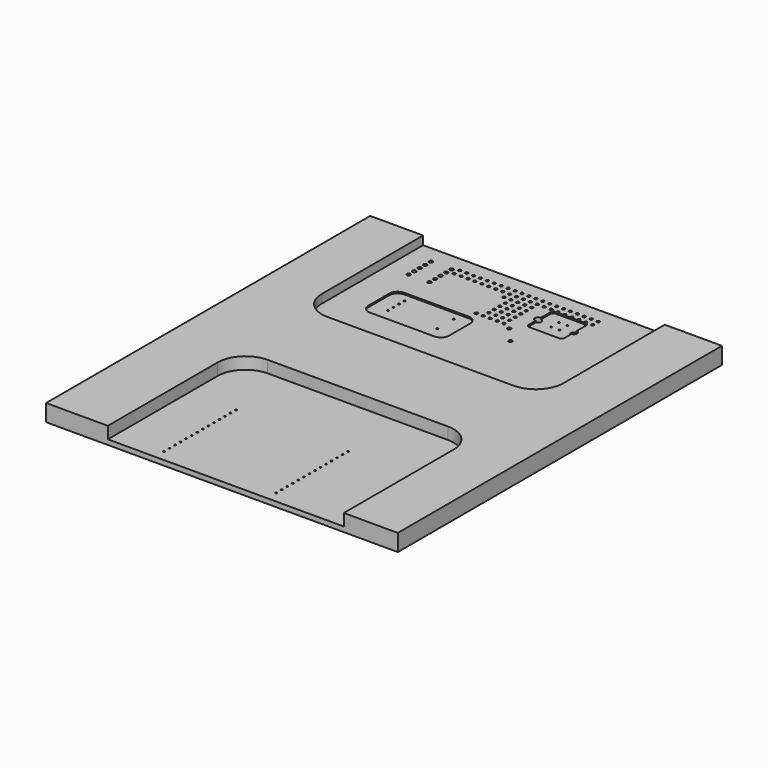
from build123d import *

# Parameters (mm, degrees)
F0_W     = 127
F0_H     = 146.3
F1_DEPTH = 6.1
F3_DEPTH = 4.3
F5_DEPTH = 3.1
F6_R     = 0.3
F6_R_2   = 0.65
F6_R_3   = 0.5
F6_R_4   = 0.6
F6_R_5   = 0.655
F6_R_6   = 0.325
F6_R_7   = 1.15
F7_DEPTH = 25
F9_DEPTH = 0.55


with BuildPart() as f1:
    # F0 (on Top) → F1 (new body)
    with BuildSketch(Plane.XY):
        Rectangle(F0_W, F0_H)
    extrude(amount=F1_DEPTH)

    # F2 (on face) → F3 (cut)
    with BuildSketch(Plane.XY.offset(6.1)):
        with BuildLine():
            Line((-41.2, -23.55), (-41.2, -73.15))
            Line((-41.2, -73.15), (44, -73.15))
            Line((44, -73.15), (44, -23.55))
            ThreePointArc((44, -23.55), (41.071068, -16.478932), (34, -13.55))
            Line((34, -13.55), (-31.2, -13.55))
            ThreePointArc((-31.2, -13.55), (-38.271068, -16.478932), (-41.2, -23.55))
        make_face()
    extrude(amount=-F3_DEPTH, mode=Mode.SUBTRACT)

    # F4 (on face) → F5 (cut)
    with BuildSketch(Plane.XY.offset(6.1)):
        with BuildLine():
            Line((42.85, 73.15), (-44.4, 73.15))
            Line((-44.4, 73.15), (-44.4, 27.45))
            ThreePointArc((-44.4, 27.45), (-41.471068, 20.378932), (-34.4, 17.45))
            Line((-34.4, 17.45), (32.85, 17.45))
            ThreePointArc((32.85, 17.45), (39.921068, 20.378932), (42.85, 27.45))
            Line((42.85, 27.45), (42.85, 73.15))
        make_face()
    extrude(amount=-F5_DEPTH, mode=Mode.SUBTRACT)

    # F6 (on face) → F7 (cut)
    with BuildSketch(Plane.XY.offset(3)):
        with Locations((-24.2, -36.55)):
            Circle(F6_R)
        with Locations((-24.2, -39.05)):
            Circle(F6_R)
        with Locations((-24.2, -41.55)):
            Circle(F6_R)
        with Locations((-24.2, -44.05)):
            Circle(F6_R)
        with Locations((-24.2, -46.55)):
            Circle(F6_R)
        with Locations((-24.2, -49.05)):
            Circle(F6_R)
        with Locations((-24.2, -51.55)):
            Circle(F6_R)
        with Locations((-24.2, -54.05)):
            Circle(F6_R)
        with Locations((-24.2, -56.55)):
            Circle(F6_R)
        with Locations((-24.2, -59.05)):
            Circle(F6_R)
        with Locations((-24.2, -61.55)):
            Circle(F6_R)
        with Locations((-24.2, -64.05)):
            Circle(F6_R)
        with Locations((-24.2, -66.55)):
            Circle(F6_R)
        with Locations((-24.2, -69.05)):
            Circle(F6_R)
        with Locations((16.3, -36.55)):
            Circle(F6_R)
        with Locations((16.3, -39.05)):
            Circle(F6_R)
        with Locations((16.3, -41.55)):
            Circle(F6_R)
        with Locations((16.3, -44.05)):
            Circle(F6_R)
        with Locations((16.3, -46.55)):
            Circle(F6_R)
        with Locations((16.3, -49.05)):
            Circle(F6_R)
        with Locations((16.3, -51.55)):
            Circle(F6_R)
        with Locations((16.3, -54.05)):
            Circle(F6_R)
        with Locations((16.3, -56.55)):
            Circle(F6_R)
        with Locations((16.3, -59.05)):
            Circle(F6_R)
        with Locations((16.3, -61.55)):
            Circle(F6_R)
        with Locations((16.3, -64.05)):
            Circle(F6_R)
        with Locations((16.3, -66.55)):
            Circle(F6_R)
        with Locations((16.3, -69.05)):
            Circle(F6_R)
        with Locations((-36.4, 66.65)):
            Circle(F6_R_2)
        with Locations((-36.4, 64.15)):
            Circle(F6_R_2)
        with Locations((-36.4, 61.65)):
            Circle(F6_R_2)
        with Locations((-36.4, 59.15)):
            Circle(F6_R_2)
        with Locations((-36.4, 56.65)):
            Circle(F6_R_2)
        with Locations((-28.9, 66.65)):
            Circle(F6_R_2)
        with Locations((-28.9, 64.15)):
            Circle(F6_R_2)
        with Locations((-28.9, 61.65)):
            Circle(F6_R_2)
        with Locations((-28.9, 59.15)):
            Circle(F6_R_2)
        with Locations((-28.9, 56.65)):
            Circle(F6_R_2)
        with Locations((-26.7, 67.55)):
            Circle(F6_R_3)
        with Locations((-26.7, 65.05)):
            Circle(F6_R_3)
        with Locations((-24.2, 67.55)):
            Circle(F6_R_3)
        with Locations((-24.2, 65.05)):
            Circle(F6_R_3)
        with Locations((-21.7, 67.55)):
            Circle(F6_R_3)
        with Locations((-21.7, 65.05)):
            Circle(F6_R_3)
        with Locations((-19.2, 67.55)):
            Circle(F6_R_3)
        with Locations((-19.2, 65.05)):
            Circle(F6_R_3)
        with Locations((-16.7, 67.55)):
            Circle(F6_R_3)
        with Locations((-16.7, 65.05)):
            Circle(F6_R_3)
        with Locations((-14.2, 67.55)):
            Circle(F6_R_3)
        with Locations((-14.2, 65.05)):
            Circle(F6_R_3)
        with Locations((-11.7, 67.55)):
            Circle(F6_R_3)
        with Locations((-11.7, 65.05)):
            Circle(F6_R_3)
        with Locations((-9.2, 67.55)):
            Circle(F6_R_3)
        with Locations((-9.2, 65.05)):
            Circle(F6_R_3)
        with Locations((-6.7, 67.55)):
            Circle(F6_R_3)
        with Locations((-6.7, 65.05)):
            Circle(F6_R_3)
        with Locations((-4.2, 67.55)):
            Circle(F6_R_3)
        with Locations((-4.2, 65.05)):
            Circle(F6_R_3)
        with Locations((-1.7, 67.55)):
            Circle(F6_R_3)
        with Locations((-1.7, 65.05)):
            Circle(F6_R_3)
        with Locations((0.8, 67.55)):
            Circle(F6_R_3)
        with Locations((0.8, 65.05)):
            Circle(F6_R_3)
        with Locations((3.3, 67.55)):
            Circle(F6_R_3)
        with Locations((3.3, 65.05)):
            Circle(F6_R_3)
        with Locations((5.8, 67.55)):
            Circle(F6_R_3)
        with Locations((5.8, 65.05)):
            Circle(F6_R_3)
        with Locations((8.3, 67.55)):
            Circle(F6_R_3)
        with Locations((8.3, 65.05)):
            Circle(F6_R_3)
        with Locations((10.8, 67.55)):
            Circle(F6_R_3)
        with Locations((10.8, 65.05)):
            Circle(F6_R_3)
        with Locations((13.3, 67.55)):
            Circle(F6_R_3)
        with Locations((13.3, 65.05)):
            Circle(F6_R_3)
        with Locations((15.8, 67.55)):
            Circle(F6_R_3)
        with Locations((15.8, 65.05)):
            Circle(F6_R_3)
        with Locations((18.3, 67.55)):
            Circle(F6_R_3)
        with Locations((18.3, 65.05)):
            Circle(F6_R_3)
        with Locations((20.8, 67.55)):
            Circle(F6_R_3)
        with Locations((20.8, 65.05)):
            Circle(F6_R_3)
        with Locations((23.3, 67.55)):
            Circle(F6_R_3)
        with Locations((23.3, 65.05)):
            Circle(F6_R_3)
        with Locations((-6.7, 62.55)):
            Circle(F6_R_3)
        with Locations((-4.2, 62.55)):
            Circle(F6_R_3)
        with Locations((-4.2, 60.05)):
            Circle(F6_R_3)
        with Locations((-4.2, 57.55)):
            Circle(F6_R_3)
        with Locations((-4.2, 55.05)):
            Circle(F6_R_3)
        with Locations((-4.2, 52.55)):
            Circle(F6_R_3)
        with Locations((-4.2, 50.05)):
            Circle(F6_R_3)
        with Locations((-1.7, 62.55)):
            Circle(F6_R_3)
        with Locations((-1.7, 60.05)):
            Circle(F6_R_3)
        with Locations((-1.7, 57.55)):
            Circle(F6_R_3)
        with Locations((-1.7, 55.05)):
            Circle(F6_R_3)
        with Locations((-1.7, 52.55)):
            Circle(F6_R_3)
        with Locations((-1.7, 50.05)):
            Circle(F6_R_3)
        with Locations((0.8, 62.55)):
            Circle(F6_R_3)
        with Locations((0.8, 60.05)):
            Circle(F6_R_3)
        with Locations((0.8, 57.55)):
            Circle(F6_R_3)
        with Locations((0.8, 55.05)):
            Circle(F6_R_3)
        with Locations((0.8, 52.55)):
            Circle(F6_R_3)
        with Locations((0.8, 50.05)):
            Circle(F6_R_3)
        with Locations((3.3, 62.55)):
            Circle(F6_R_3)
        with Locations((3.3, 60.05)):
            Circle(F6_R_3)
        with Locations((3.3, 57.55)):
            Circle(F6_R_3)
        with Locations((3.3, 55.05)):
            Circle(F6_R_3)
        with Locations((3.3, 52.55)):
            Circle(F6_R_3)
        with Locations((3.3, 50.05)):
            Circle(F6_R_3)
        with Locations((-6.7, 50.05)):
            Circle(F6_R_4)
        with Locations((6.4, 48.55)):
            Circle(F6_R_5)
        with Locations((11.4, 42.85)):
            Circle(F6_R_5)
        with Locations((-27.9, 44.15)):
            Circle(F6_R_6)
        with Locations((-27.9, 41.65)):
            Circle(F6_R_6)
        with Locations((-27.9, 39.15)):
            Circle(F6_R_6)
        with Locations((-27.9, 36.65)):
            Circle(F6_R_6)
        with Locations((-10.1, 44.15)):
            Circle(F6_R_6)
        with Locations((-10.1, 36.65)):
            Circle(F6_R_6)
        with Locations((9.11, 58.15)):
            Circle(F6_R_7)
        with Locations((22.11, 58.15)):
            Circle(F6_R_7)
        with Locations((17.35, 61.05)):
            Circle(F6_R)
        with Locations((17.35, 57.55)):
            Circle(F6_R)
        with Locations((14.35, 61.05)):
            Circle(F6_R)
        with Locations((14.35, 57.55)):
            Circle(F6_R)
    extrude(amount=-F7_DEPTH, mode=Mode.SUBTRACT)

    # F8 (on face) → F9 (cut)
    with BuildSketch(Plane.XY.offset(3)):
        with BuildLine():
            Line((-7.15, 47.15), (-30.4, 47.15))
            ThreePointArc((-30.4, 47.15), (-32.52132, 46.27132), (-33.4, 44.15))
            Line((-33.4, 44.15), (-33.4, 34.65))
            ThreePointArc((-33.4, 34.65), (-32.52132, 32.52868), (-30.4, 31.65))
            Line((-30.4, 31.65), (-7.15, 31.65))
            ThreePointArc((-7.15, 31.65), (-5.02868, 32.52868), (-4.15, 34.65))
            Line((-4.15, 34.65), (-4.15, 44.15))
            ThreePointArc((-4.15, 44.15), (-5.02868, 46.27132), (-7.15, 47.15))
        make_face()
        with BuildLine():
            Line((21.15, 64.65), (10.2, 64.65))
            ThreePointArc((10.2, 64.65), (9.492893, 64.357107), (9.2, 63.65))
            Line((9.2, 63.65), (9.2, 53.75))
            ThreePointArc((9.2, 53.75), (9.492893, 53.042893), (10.2, 52.75))
            Line((10.2, 52.75), (21.15, 52.75))
            ThreePointArc((21.15, 52.75), (21.857107, 53.042893), (22.15, 53.75))
            Line((22.15, 53.75), (22.15, 63.65))
            ThreePointArc((22.15, 63.65), (21.857107, 64.357107), (21.15, 64.65))
        make_face()
    extrude(amount=-F9_DEPTH, mode=Mode.SUBTRACT)


solid = f1.part
